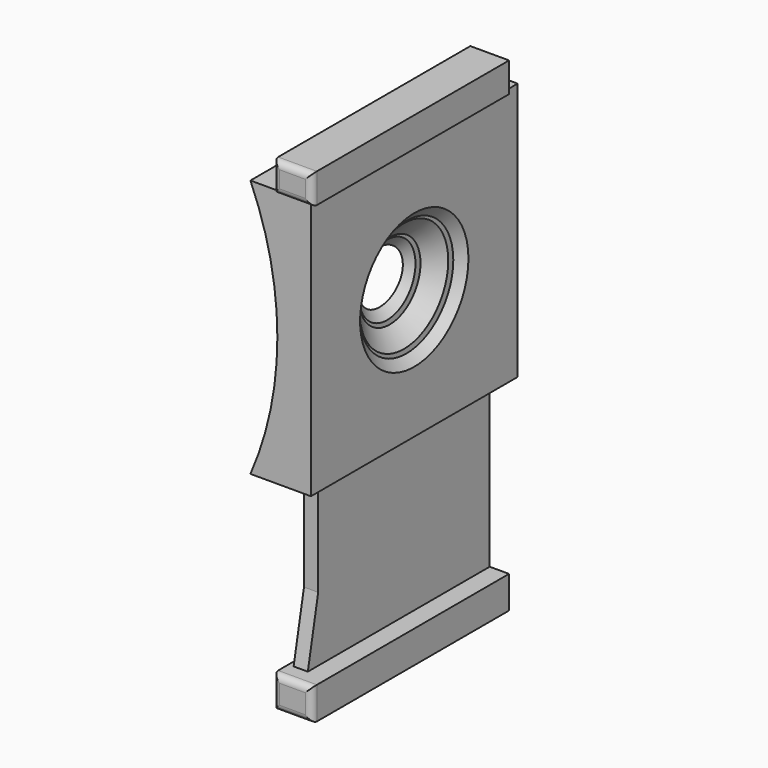
from build123d import *

# Parameters (mm, degrees)
F0_W           = 3
F0_H           = 3
F1_DEPTH       = 20
F2_R           = 50
F3_DEPTH       = 25
F4_W           = 2.2
F4_H           = 33.2
F5_DEPTH       = 70
F5_DEPTH_BACK  = 5
F7_R           = 3
F8_DEPTH       = 25
F8_TAPER       = -50
F9_W           = 38.2
F9_H           = 4.6
F9_H_2         = 5
F10_DEPTH      = 3
F10_DEPTH_BACK = 3
F11_R          = 1
F12_SIZE2      = 10
F12_SIZE       = 2
F13_SIZE2      = 6
F13_SIZE       = 2


with BuildPart() as f1:
    # F0 (on Top) → F1 (new body, symmetric)
    with BuildSketch(Plane.XY):
        with BuildLine():
            Line((10, 20), (4.6257569496, 20))
            ThreePointArc((4.6257569496, 20), (7.7453156465, 10.2154821845), (8.8, 0))
            ThreePointArc((8.8, 0), (7.7453156465, -10.2154821845), (4.6257569496, -20))
            Line((4.6257569496, -20), (10, -20))
            Line((10, -20), (10, -17))
            Line((10, -17), (10, 17))
            Line((10, 17), (10, 20))
        make_face()
        with Locations((11.5, 18.5)):
            Rectangle(F0_W, F0_H)
        Polygon((14.2, 20), (13, 20), (13, 17), (13, -17), (13, -20), (14.2, -20), align=None)
        with Locations((11.5, -18.5)):
            Rectangle(F0_W, F0_H)
        with BuildLine():
            Line((4.6257569496, 20), (0, 20))
            Line((0, 20), (0, -20))
            Line((0, -20), (4.6257569496, -20))
            ThreePointArc((4.6257569496, -20), (7.7453156465, -10.2154821845), (8.8, 0))
            ThreePointArc((8.8, 0), (7.7453156465, 10.2154821845), (4.6257569496, 20))
        make_face()
    extrude(amount=F1_DEPTH, both=True)

    # F2 (on Front) → F3 (cut, symmetric)
    with BuildSketch(Plane.XZ):
        with Locations((-41, 0)):
            Circle(F2_R)
    extrude(amount=F3_DEPTH, both=True, mode=Mode.SUBTRACT)


with BuildPart() as f5:
    # F4 (on face) → F5 (new body, two sides)
    with BuildSketch(Plane.XY.offset(20)) as f5_sk:
        with Locations((11.5, 0)):
            Rectangle(F4_W, F4_H)
    extrude(amount=-F5_DEPTH)
    extrude(f5_sk.sketch, amount=F5_DEPTH_BACK)


with BuildPart() as f8_tool:
    # F7 (on offset) → F8 (new body)
    with BuildSketch(Plane.YZ.offset(7.92)):
        Circle(F7_R)
    extrude(amount=F8_DEPTH, taper=F8_TAPER)


with BuildPart() as f1_1:
    add(f1.part)

    # F8: cut by f8_tool
    add(f8_tool.part, mode=Mode.SUBTRACT)

    # F13
    f13_edges = [f1_1.edges().sort_by_distance(p)[0] for p in [
        (11.5, -17, -20),
    ]]
    f13_side = f1_1.faces().sort_by_distance((8.770355, 0, -20))[0]
    chamfer(f13_edges, length=F13_SIZE, length2=F13_SIZE2, reference=f13_side)


with BuildPart() as f5_1:
    add(f5.part)

    # F8: cut by f8_tool
    add(f8_tool.part, mode=Mode.SUBTRACT)

    # F9 (on face) → F10 (join, two sides)
    with BuildSketch(Plane.YZ.offset(12.6)) as f10_sk:
        with Locations((-2.5, 22.7)):
            Rectangle(F9_W, F9_H)
        with Locations((-2.5, -47.5)):
            Rectangle(F9_W, F9_H_2)
    extrude(amount=F10_DEPTH)
    extrude(f10_sk.sketch, amount=-F10_DEPTH_BACK)

    # F11
    f11_edges = [f5_1.edges().sort_by_distance(p)[0] for p in [
        (12.6, -21.6, -45),
        (15.6, -21.6, -47.5),
        (12.6, -21.6, -50),
        (9.6, -21.6, -47.5),
        (15.6, -21.6, 22.7),
        (12.6, -21.6, 20.4),
        (9.6, -21.6, 22.7),
        (12.6, -21.6, 25),
    ]]
    fillet(f11_edges, radius=F11_R)

    # F12
    f12_edges = [f5_1.edges().sort_by_distance(p)[0] for p in [
        (11.5, -16.6, -45),
    ]]
    f12_side = f5_1.faces().sort_by_distance((13.135056, -2.972829, -45))[0]
    chamfer(f12_edges, length=F12_SIZE, length2=F12_SIZE2, reference=f12_side)


solid = Compound([f1_1.part, f5_1.part])
